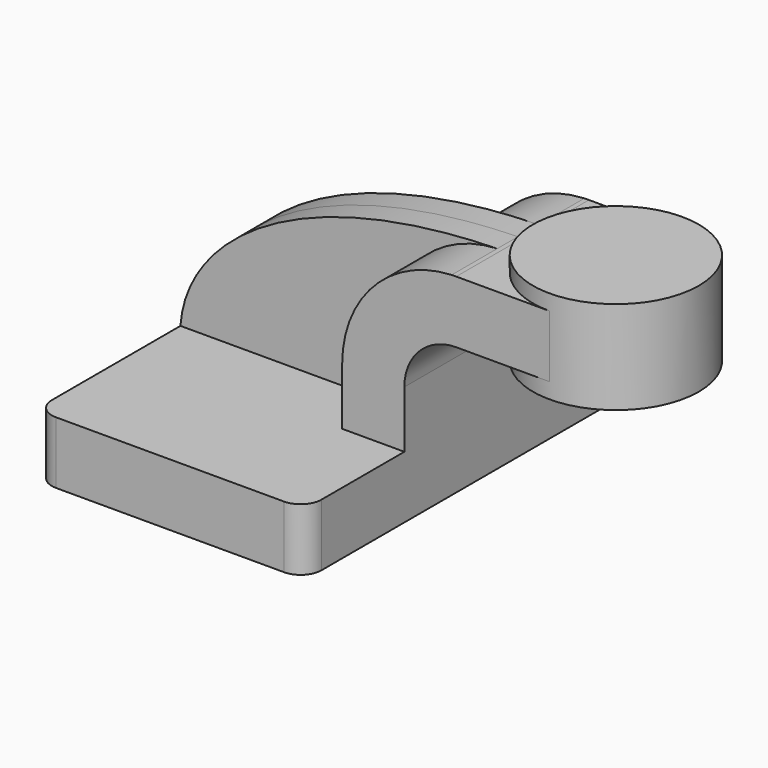
from build123d import *

# Parameters (mm, degrees)
F1_DEPTH = 63.5
F2_DEPTH = 7.9375
F0_W     = 25.4
F0_H     = 19.05
F3_DEPTH = 25.4
F5_R     = 6.35


with BuildPart() as f1:
    # F0 (on Front) → F1 (new body, symmetric)
    with BuildSketch(Plane.XZ):
        Polygon((-41.275, 9.525), (-41.275, -9.525), (41.275, -9.525), (41.275, 9.525), (22.225, 9.525), align=None)
    extrude(amount=F1_DEPTH, both=True)

    # F0 (on Front) → F2 (join, symmetric)
    with BuildSketch(Plane.XZ):
        with BuildLine():
            add(Edge.make_bspline(
                [(-41.275, 9.525), (-39.6070504459, 34.3761578761), (-7.6353036908, 60.4303854768), (55.7402997063, 61.8967380816)],
                knots=[0, 0, 0, 0, 110.6868392029, 110.6868392029, 110.6868392029, 110.6868392029], degree=3))
            Line((-41.275, 9.525), (22.225, 9.525))
            Line((22.225, 9.525), (22.225, 27.0002))
            ThreePointArc((22.225, 27.0002), (31.9608216911, 51.1923665239), (55.7402997063, 61.8967380816))
        make_face()
    extrude(amount=F2_DEPTH, both=True)

    # F0 (on Front) → F3 (join, symmetric)
    with BuildSketch(Plane.XZ):
        with BuildLine():
            Line((22.225, 9.525), (41.275, 9.525))
            Line((41.275, 9.525), (41.275, 27.0002))
            ThreePointArc((41.275, 27.0002), (45.9246798487, 38.2255201513), (57.15, 42.8752))
            Line((57.15, 42.8752), (60.325, 42.8752))
            Line((60.325, 42.8752), (60.325, 61.9252))
            Line((60.325, 61.9252), (57.15, 61.9252))
            add(Edge.make_bspline(
                [(55.7402997063, 61.8967380816), (56.2084857946, 61.9075707341), (56.6783857447, 61.9170615063), (57.15, 61.9252)],
                knots=[110.6868392029, 110.6868392029, 110.6868392029, 110.6868392029, 111.5045361635, 111.5045361635, 111.5045361635, 111.5045361635], degree=3))
            ThreePointArc((55.7402997063, 61.8967380816), (31.9608216911, 51.1923665239), (22.225, 27.0002))
            Line((22.225, 27.0002), (22.225, 9.525))
        make_face()
        with Locations((73.025, 52.4002)):
            Rectangle(F0_W, F0_H)
    extrude(amount=F3_DEPTH, both=True)

    # F0 (on Front) → F4 (revolve)
    with BuildSketch(Plane.XZ):
        Polygon((85.725, 66.675), (85.725, 61.9252), (85.725, 42.8752), (85.725, 38.1), (111.125, 38.1), (111.125, 66.675), align=None)
    revolve(axis=Axis((85.725, 0, 52.3875), (0, 0, -1)))

    # F5
    f5_edges = [f1.edges().sort_by_distance(p)[0] for p in [
        (41.275, -63.5, 0),
        (-41.275, -63.5, 0),
        (41.275, 63.5, 0),
        (-41.275, 63.5, 0),
    ]]
    fillet(f5_edges, radius=F5_R)


solid = f1.part
